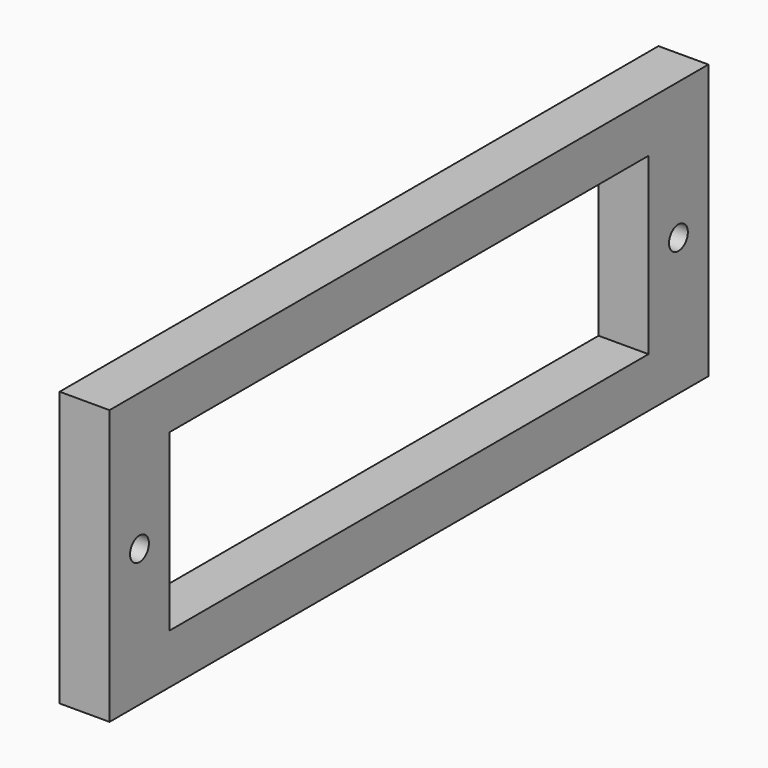
from build123d import *

# Parameters (mm, degrees)
F0_R     = 0.75
F0_W     = 38.1
F0_H     = 3.175
F1_DEPTH = 3.175


with BuildPart() as f1:
    # F0 (on Right) → F1 (new body)
    with BuildSketch(Plane.YZ):
        Polygon((0, 8.73125), (0, 0), (4.7625, 0), (4.7625, 3.175), (4.7625, 14.2875), (4.7625, 17.4625), (2.38125, 17.4625), (0, 17.4625), align=None)
        with Locations((2.38125, 8.73125)):
            Circle(F0_R, mode=Mode.SUBTRACT)
        with Locations((23.8125, 1.5875)):
            Rectangle(F0_W, F0_H)
        with Locations((23.8125, 15.875)):
            Rectangle(F0_W, F0_H)
        Polygon((42.8625, 3.175), (42.8625, 0), (47.625, 0), (47.625, 17.4625), (42.8625, 17.4625), (42.8625, 14.2875), align=None)
        with Locations((45.24375, 8.73125)):
            Circle(F0_R, mode=Mode.SUBTRACT)
    extrude(amount=F1_DEPTH)


solid = f1.part
